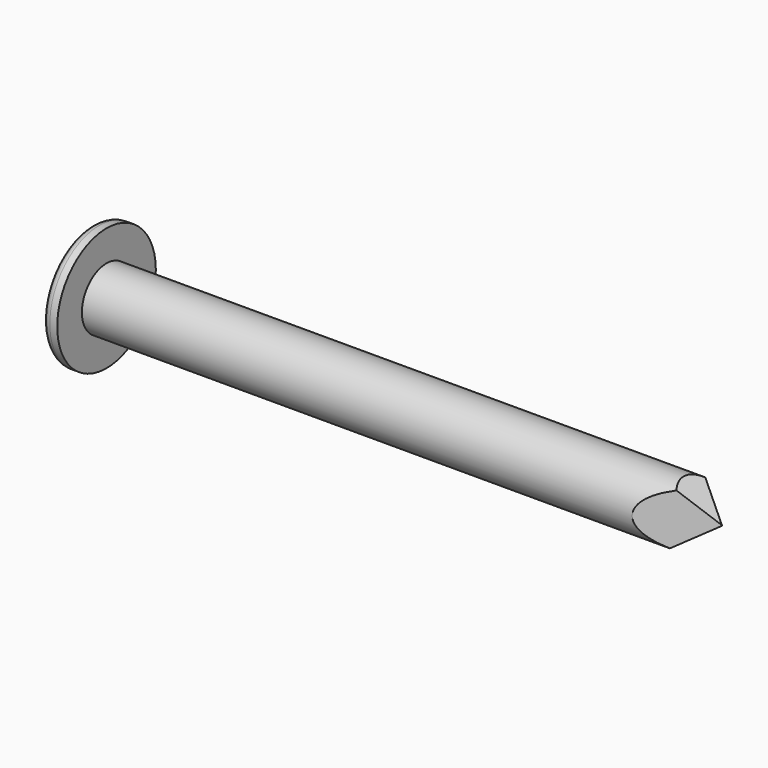
from build123d import *

# Parameters (mm, degrees)
F0_R          = 0.5
F1_DEPTH      = 10
F0_R_2        = 1
F2_DEPTH      = 0.25
F3_R          = 0.13
F5_DEPTH      = 25
F5_DEPTH_BACK = 25
F7_DEPTH      = 25
F7_DEPTH_BACK = 25


with BuildPart() as f1:
    # F0 (on Right) → F1 (new body)
    with BuildSketch(Plane.YZ):
        Circle(F0_R)
    extrude(amount=F1_DEPTH)

    # F0 (on Right) → F2 (join)
    with BuildSketch(Plane.YZ):
        Circle(F0_R_2)
        Circle(F0_R, mode=Mode.SUBTRACT)
        Circle(F0_R)
    extrude(amount=-F2_DEPTH)

    # F3
    f3_edges = [f1.edges().sort_by_distance(p)[0] for p in [
        (-0.25, -1, 0),
    ]]
    fillet(f3_edges, radius=F3_R)

    # F4 (on Front) → F5 (cut, two sides)
    with BuildSketch(Plane.XZ) as f5_sk:
        Polygon((9.2973364517, 1.1940489057), (9.0074734762, 0.7828483358), (9.9916588515, 0), (8.8052442297, -0.7810618845), (10.7196858153, -0.7540978841), (10.7331676409, 1.3423507335), align=None)
    extrude(amount=-F5_DEPTH, mode=Mode.SUBTRACT)
    extrude(f5_sk.sketch, amount=F5_DEPTH_BACK, mode=Mode.SUBTRACT)

    # F6 (on Top) → F7 (cut, two sides)
    with BuildSketch(Plane.XY) as f7_sk:
        Polygon((9.9852262065, 0), (8.3366055042, -0.7803390617), (11.1771607772, -1.2145728106), (11.2198108528, 0.6940264138), (8.7891332805, 0.6940264138), align=None)
    extrude(amount=F7_DEPTH, mode=Mode.SUBTRACT)
    extrude(f7_sk.sketch, amount=-F7_DEPTH_BACK, mode=Mode.SUBTRACT)


solid = f1.part
